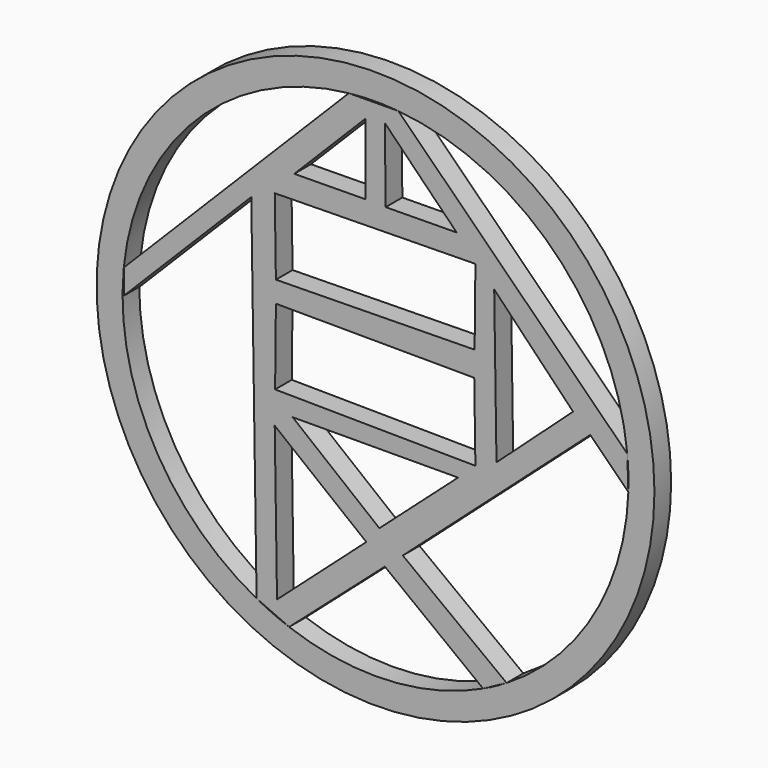
from build123d import *

# Parameters (mm, degrees)
F0_R     = 30.558504
F1_DEPTH = 2.286


with BuildPart() as f1:
    # F0 (on Front) → F1 (new body)
    with BuildSketch(Plane.XZ):
        Circle(F0_R)
        with BuildLine():
            ThreePointArc((27.581866, 2.703907), (27.681009, 1.353569), (27.714083, 0))
            ThreePointArc((27.714083, 0), (27.710121, -0.468625), (27.698235, -0.937116))
            ThreePointArc((27.698235, -0.937116), (23.913413, -14.007823), (14.363487, -23.701491))
            ThreePointArc((14.363487, -23.701491), (13.092748, -24.426428), (11.785525, -25.083298))
            ThreePointArc((11.785525, -25.083298), (1.257661, -27.685533), (-9.462777, -26.048537))
            ThreePointArc((-9.462777, -26.048537), (-11.27376, -25.31744), (-13.028759, -24.460619))
            ThreePointArc((-13.028759, -24.460619), (-24.432539, -13.081339), (-27.580463, 2.718179))
            ThreePointArc((-27.580463, 2.718179), (-19.668706, 19.524662), (-2.92083, 27.559738))
            ThreePointArc((-2.92083, 27.559738), (-0.210877, 27.713281), (2.501099, 27.600995))
            ThreePointArc((2.501099, 27.600995), (19.524662, 19.668706), (27.581866, 2.703907))
        make_face(mode=Mode.SUBTRACT)
        Polygon((27.698235, -0.937116), (27.581866, 2.703907), (2.501099, 27.600995), (-2.92083, 27.559738), (-27.580463, 2.718179), (-27.580463, 0), (-13.611677, 14.071841), (-13.028759, -24.460619), (-9.462777, -26.048537), (1.022188, -16.817508), (11.785525, -25.083298), (14.363487, -23.701491), (2.990186, -15.106206), (23.525823, 3.20474), align=None)
        Polygon((-10.790164, -23.828741), (-11.0425, -7.148646), (-1.007884, -15.106206), align=None, mode=Mode.SUBTRACT)
        Polygon((0.423232, -13.309337), (-9.074502, -5.694038), (9.040986, -5.625172), align=None, mode=Mode.SUBTRACT)
        Polygon((-10.999883, -3.641794), (-10.914402, 4.659347), (10.814924, 4.575656), (10.942655, -3.867745), align=None, mode=Mode.SUBTRACT)
        Polygon((10.857149, 7.302198), (-10.914402, 6.972839), (-11.039972, 15.273349), (10.942655, 15.605902), align=None, mode=Mode.SUBTRACT)
        Polygon((-1.102256, 17.921947), (-8.903372, 17.836383), (-1.102256, 25.695052), align=None, mode=Mode.SUBTRACT)
        Polygon((13.252449, -2.7862), (13.00131, 13.814819), (21.643393, 4.830477), align=None, mode=Mode.SUBTRACT)
        Polygon((1.110876, 17.879165), (1.022188, 25.965074), (8.8909, 17.964498), align=None, mode=Mode.SUBTRACT)
    extrude(amount=F1_DEPTH)


solid = f1.part
